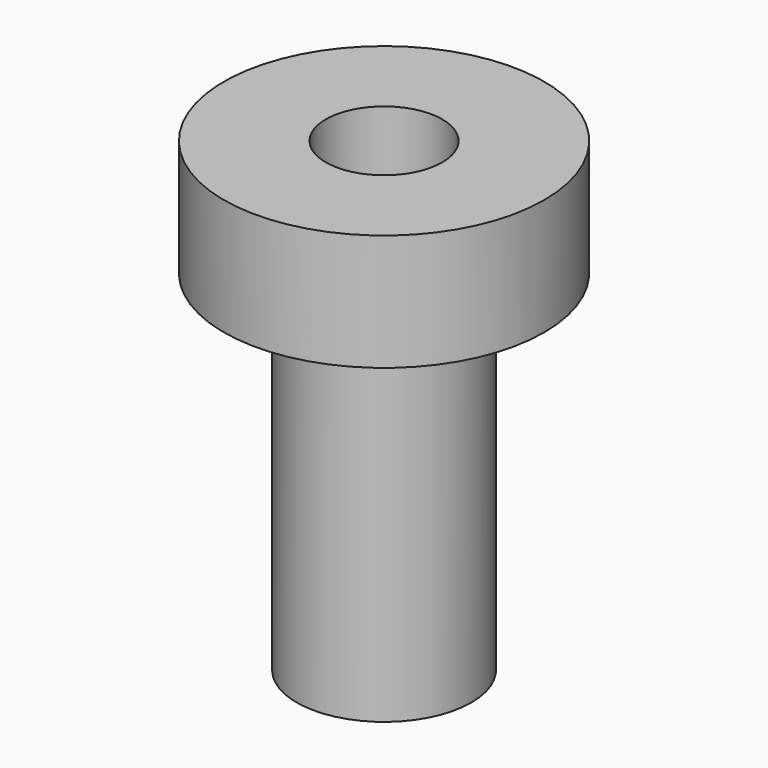
from build123d import *

# Parameters (mm, degrees)
F0_R     = 2.75
F1_DEPTH = 8
F2_R     = 2.75
F2_R_2   = 1.5
F3_DEPTH = 6
F4_R     = 1
F5_DEPTH = 2


with BuildPart() as f1:
    # F0 (on Top) → F1 (new body)
    with BuildSketch(Plane.XY):
        Circle(F0_R)
    extrude(amount=F1_DEPTH)

    # F2 (on face) → F3 (cut)
    with BuildSketch(Plane(origin=(0, 0, 0), x_dir=(1, 0, 0), z_dir=(0, 0, -1))):
        Circle(F2_R)
        Circle(F2_R_2, mode=Mode.SUBTRACT)
    extrude(amount=-F3_DEPTH, mode=Mode.SUBTRACT)

    # F4 (on face) → F5 (cut)
    with BuildSketch(Plane.XY.offset(8)):
        Circle(F4_R)
    extrude(amount=-F5_DEPTH, mode=Mode.SUBTRACT)


solid = f1.part
